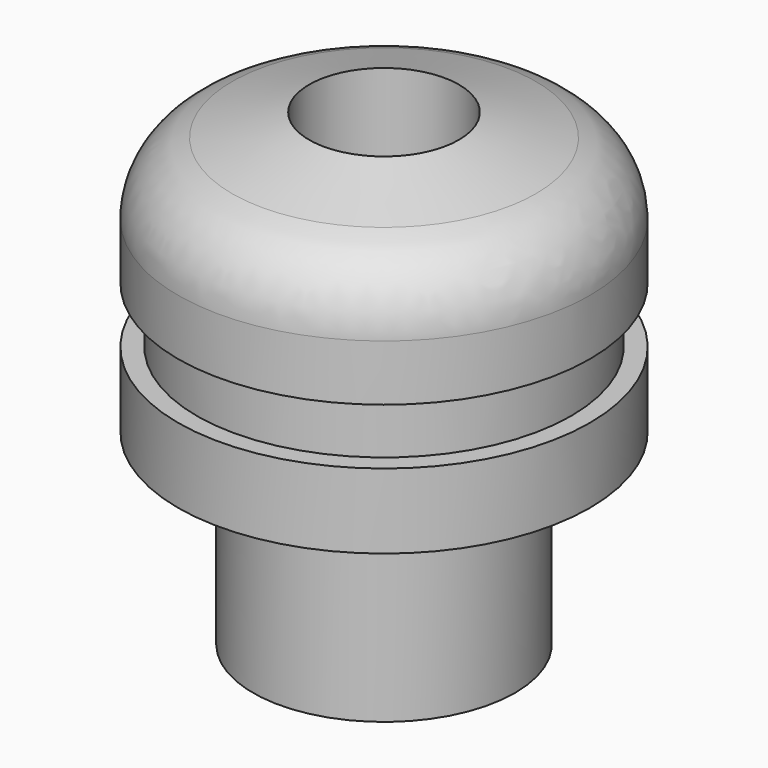
from build123d import *

# Parameters (mm, degrees)
F2_R = 2


with BuildPart() as f1:
    # F0 (on Front) → F1 (revolve)
    with BuildSketch(Plane.XZ):
        Polygon((5.5, 11.5), (2, 12.515515), (2, 0), (3.5, 0), (3.5, 5), (5.5, 5), (5.5, 7), (5, 7), (5, 8.5), (5.5, 8.5), align=None)
    revolve(axis=Axis((0, 0, 5.238776), (0, 0, 1)))

    # F2
    f2_edges = [f1.edges().sort_by_distance(p)[0] for p in [
        (-5.5, 0, 11.5),
    ]]
    fillet(f2_edges, radius=F2_R)


solid = f1.part
